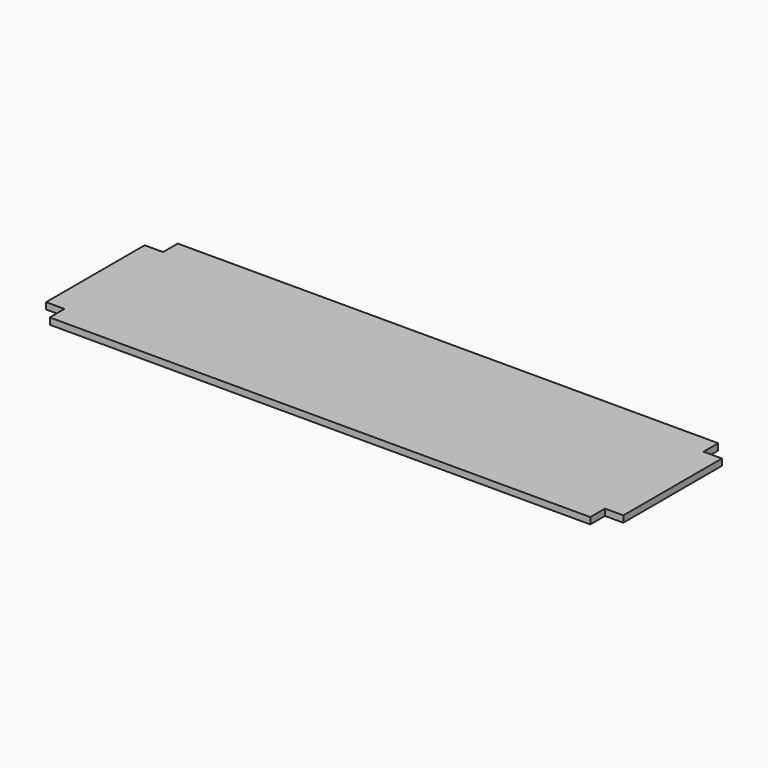
from build123d import *

# Parameters (mm, degrees)
F0_W     = 1695.45
F0_H     = 469.9
F1_DEPTH = 19.05
F2_W     = 53.975
F2_H     = 53.975
F3_DEPTH = 19.05


with BuildPart() as f1:
    # F0 (on Top) → F1 (new body)
    with BuildSketch(Plane.XY):
        Rectangle(F0_W, F0_H)
    extrude(amount=F1_DEPTH)

    # F2 (on face) → F3 (cut, through all)
    with BuildSketch(Plane.XY.offset(19.05)):
        with Locations((-820.7375, 207.9625)):
            Rectangle(F2_W, F2_H)
        with Locations((-820.7375, -207.9625)):
            Rectangle(F2_W, F2_H)
        with Locations((820.7375, 207.9625)):
            Rectangle(F2_W, F2_H)
        with Locations((820.7375, -207.9625)):
            Rectangle(F2_W, F2_H)
    extrude(amount=-F3_DEPTH, mode=Mode.SUBTRACT)


solid = f1.part
